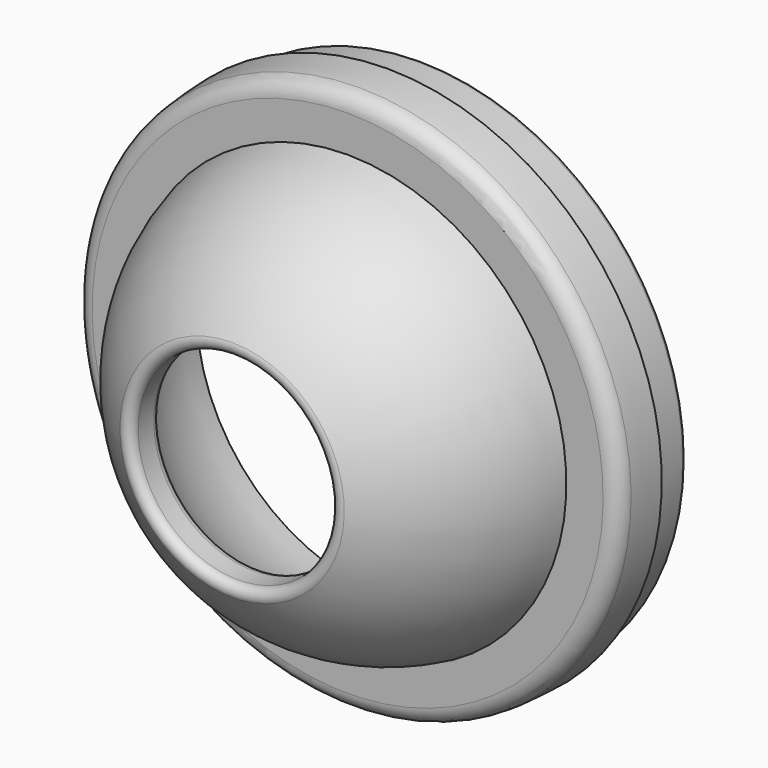
from build123d import *


with BuildPart() as f1:
    # F0 (on Right) → F1 (revolve)
    with BuildSketch(Plane.YZ):
        with BuildLine():
            Line((-3, 15.370426), (-3, 13.162447))
            ThreePointArc((-3, 13.162447), (-1.509465, 13.415346), (0, 13.5))
            Line((0, 13.5), (0, 13.95))
            Line((0, 13.95), (0, 15.95))
            Line((0, 15.95), (0, 16.5))
            ThreePointArc((0, 16.5), (-1.066748, 16.465481), (-2.129032, 16.362067))
            ThreePointArc((-2.129032, 16.362067), (-2.751343, 16.030338), (-3, 15.370426))
        make_face()
        with BuildLine():
            Line((0, 15.95), (0, 13.95))
            Line((0, 13.95), (2.25, 13.95))
            ThreePointArc((2.25, 13.95), (2.426777, 14.023223), (2.5, 14.2))
            Line((2.5, 14.2), (2.5, 15.7))
            ThreePointArc((2.5, 15.7), (2.426777, 15.876777), (2.25, 15.95))
            Line((2.25, 15.95), (0, 15.95))
        make_face()
        with BuildLine():
            Line((-11.25833, 6), (-10.087121, 6))
            ThreePointArc((-10.087121, 6), (-9.847764, 6.061014), (-9.666824, 6.229167))
            ThreePointArc((-9.666824, 6.229167), (-5.505206, 10.096668), (0, 11.5))
            Line((0, 11.5), (0, 13.5))
            ThreePointArc((0, 13.5), (-1.509465, 13.415346), (-3, 13.162447))
            ThreePointArc((-3, 13.162447), (-8.014908, 10.863298), (-11.691343, 6.75))
            ThreePointArc((-11.691343, 6.75), (-11.691343, 6.25), (-11.25833, 6))
        make_face()
    revolve(axis=Axis((0, 2.5, 0), (0, 1, 0)))


solid = f1.part
